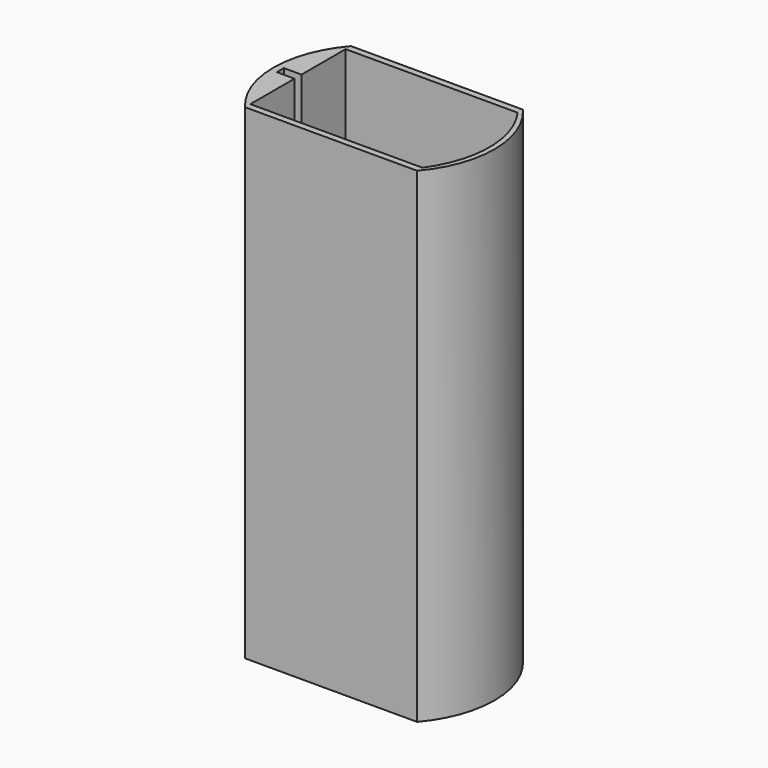
from build123d import *

# Parameters (mm, degrees)
F1_DEPTH = 1
F3_DEPTH = 109


with BuildPart() as f1:
    # F0 (on Top) → F1 (new body)
    with BuildSketch(Plane.XY):
        with BuildLine():
            Line((16.5, 32.037087), (-22.5, 32.037087))
            ThreePointArc((-22.5, 32.037087), (-28.064404, 17.037087), (-22.5, 2.037087))
            Line((-22.5, 2.037087), (16.5, 2.037087))
            ThreePointArc((16.5, 2.037087), (22.064404, 17.037087), (16.5, 32.037087))
        make_face()
    extrude(amount=F1_DEPTH)

    # F2 (on face) → F3 (join)
    with BuildSketch(Plane.XY.offset(1)):
        with BuildLine():
            ThreePointArc((16.5, 2.037087), (22.064404, 17.037087), (16.5, 32.037087))
            Line((16.5, 32.037087), (-22.5, 32.037087))
            ThreePointArc((-22.5, 32.037087), (-28.064404, 17.037087), (-22.5, 2.037087))
            Line((-22.5, 2.037087), (16.5, 2.037087))
        make_face()
        with BuildLine():
            Line((-22.5, 18.037087), (-22.5, 30.537087))
            Line((-22.5, 30.537087), (16.5, 30.537087))
            ThreePointArc((16.5, 30.537087), (20.878776, 17.037087), (16.5, 3.537087))
            Line((16.5, 3.537087), (-22.5, 3.537087))
            Line((-22.5, 3.537087), (-22.5, 16.037087))
            Line((-22.5, 16.037087), (-26.5, 16.037087))
            Line((-26.5, 16.037087), (-26.5, 18.037087))
            Line((-26.5, 18.037087), (-22.5, 18.037087))
        make_face(mode=Mode.SUBTRACT)
    extrude(amount=F3_DEPTH)


solid = f1.part
